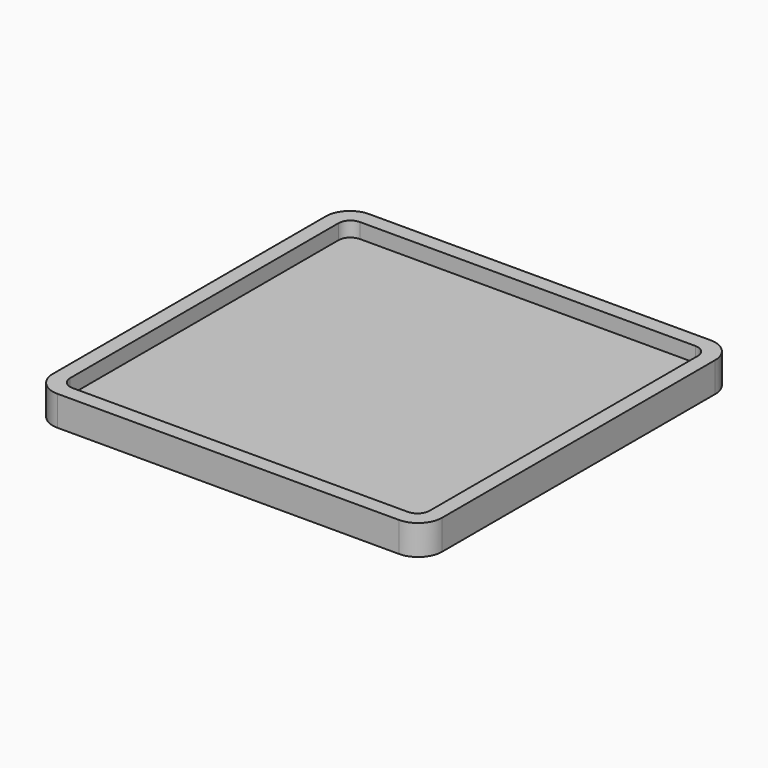
from build123d import *

# Parameters (mm, degrees)
F0_W     = 82.55
F0_H     = 82.55
F1_DEPTH = 6.35
F2_W     = 76.2
F2_H     = 76.2
F3_DEPTH = 3.175
F4_R     = 5.08
F5_R     = 2.54


with BuildPart() as f1:
    # F0 (on Top) → F1 (new body)
    with BuildSketch(Plane.XY):
        with Locations((41.275, 41.275)):
            Rectangle(F0_W, F0_H)
    extrude(amount=F1_DEPTH)

    # F2 (on face) → F3 (cut)
    with BuildSketch(Plane.XY.offset(6.35)):
        with Locations((41.275, 41.275)):
            Rectangle(F2_W, F2_H)
    extrude(amount=-F3_DEPTH, mode=Mode.SUBTRACT)

    # F4
    f4_edges = [f1.edges().sort_by_distance(p)[0] for p in [
        (0, 0, 3.175),
        (82.55, 0, 3.175),
        (82.55, 82.55, 3.175),
        (0, 82.55, 3.175),
    ]]
    fillet(f4_edges, radius=F4_R)

    # F5
    f5_edges = [f1.edges().sort_by_distance(p)[0] for p in [
        (79.375, 3.175, 4.7625),
        (3.175, 3.175, 4.7625),
        (3.175, 79.375, 4.7625),
        (79.375, 79.375, 4.7625),
    ]]
    fillet(f5_edges, radius=F5_R)


solid = f1.part
